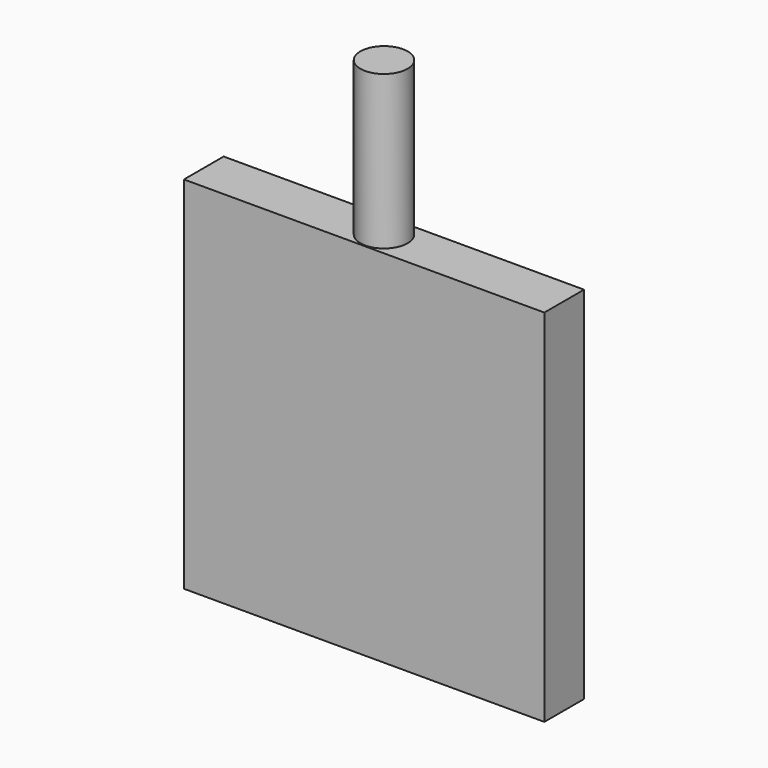
from build123d import *

# Parameters (mm, degrees)
F0_W     = 305
F0_H     = 305
F1_DEPTH = 21
F2_R     = 20
F3_DEPTH = 130


with BuildPart() as f1:
    # F0 (on Front) → F1 (new body, symmetric)
    with BuildSketch(Plane.XZ):
        Rectangle(F0_W, F0_H)
    extrude(amount=F1_DEPTH, both=True)

    # F2 (on face) → F3 (join)
    with BuildSketch(Plane.XY.offset(152.5)):
        Circle(F2_R)
    extrude(amount=F3_DEPTH)


solid = f1.part
